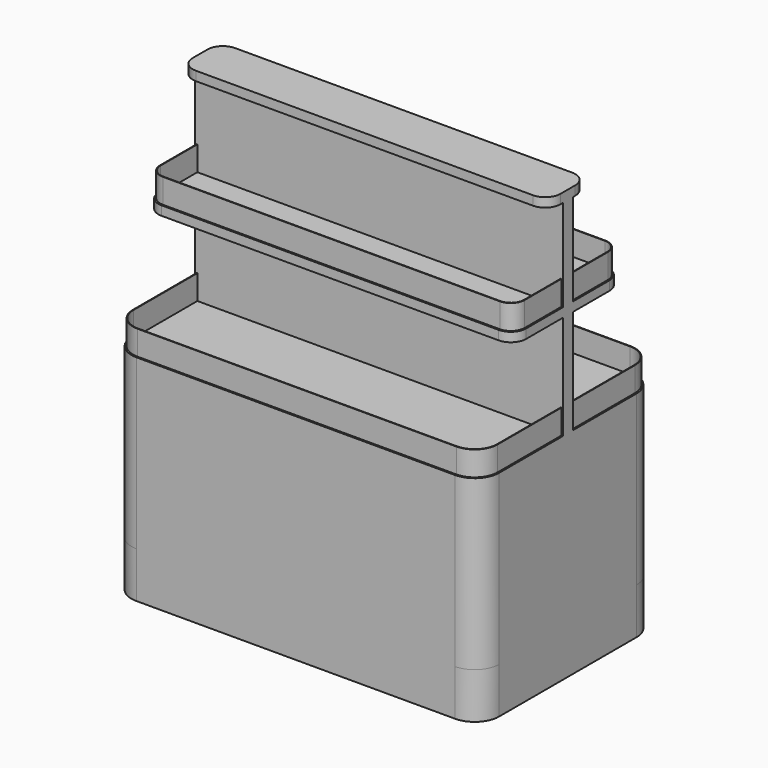
from build123d import *

# Parameters (mm, degrees)
F2_W      = 1100
F2_H      = 620
F3_DEPTH  = 150
F4_W      = 1200
F4_H      = 720
F5_DEPTH  = 550
F6_W      = 1200
F6_H      = 40
F7_DEPTH  = 700
F9_W      = 1200
F9_H      = 440
F10_DEPTH = 30
F11_W     = 1200
F11_H     = 160
F12_DEPTH = 30
F13_R     = 80
F14_R     = 85
F15_R     = 50
F16_R     = 50
F18_DEPTH = 80
F20_DEPTH = 80
F23_DEPTH = 1200
F25_DEPTH = 5
F27_DEPTH = 5
F29_DEPTH = 5
F31_DEPTH = 5
F32_R     = 15
F33_DEPTH = 594.9519681096
F35_DEPTH = 150


with BuildPart() as f3:
    # F2 (on Top) → F3 (new body, through all)
    with BuildSketch(Plane.XY):
        Rectangle(F2_W, F2_H)
    extrude(amount=F3_DEPTH)

    # F4 (on face) → F5 (join, through all)
    with BuildSketch(Plane.XY.offset(150)):
        Rectangle(F4_W, F4_H)
    extrude(amount=F5_DEPTH)

    # F6 (on face) → F7 (join, through all)
    with BuildSketch(Plane.XY.offset(700)):
        Rectangle(F6_W, F6_H)
    extrude(amount=F7_DEPTH)

    # F9 (on plane+point) → F10 (join, through all)
    with BuildSketch(Plane.XY.offset(1040)):
        Rectangle(F9_W, F9_H)
    extrude(amount=F10_DEPTH)

    # F11 (on face) → F12 (join, through all)
    with BuildSketch(Plane.XY.offset(1400)):
        Rectangle(F11_W, F11_H)
    extrude(amount=-F12_DEPTH)

    # F13
    f13_edges = [f3.edges().sort_by_distance(p)[0] for p in [
        (600, -360, 425),
        (-600, -360, 425),
        (600, 360, 425),
        (-600, 360, 425),
    ]]
    fillet(f13_edges, radius=F13_R)

    # F14
    f14_edges = [f3.edges().sort_by_distance(p)[0] for p in [
        (-550, 310, 75),
        (-550, -310, 75),
        (550, -310, 75),
        (550, 310, 75),
    ]]
    fillet(f14_edges, radius=F14_R)

    # F15
    f15_edges = [f3.edges().sort_by_distance(p)[0] for p in [
        (600, 220, 1055),
        (-600, 220, 1055),
        (-600, -220, 1055),
        (600, -220, 1055),
    ]]
    fillet(f15_edges, radius=F15_R)

    # F16
    f16_edges = [f3.edges().sort_by_distance(p)[0] for p in [
        (600, -80, 1385),
        (600, 80, 1385),
        (-600, -80, 1385),
        (-600, 80, 1385),
    ]]
    fillet(f16_edges, radius=F16_R)

    # F34 (on face) → F35 (join, through all)
    with BuildSketch(Plane(origin=(0, 0, 150), x_dir=(1, 0, 0), z_dir=(0, 0, -1))):
        with BuildLine():
            Line((520, 360), (-520, 360))
            ThreePointArc((-520, 360), (-576.5685424949, 336.5685424949), (-600, 280))
            Line((-600, 280), (-600, -280))
            ThreePointArc((-600, -280), (-576.5685424949, -336.5685424949), (-520, -360))
            Line((-520, -360), (520, -360))
            ThreePointArc((520, -360), (576.5685424949, -336.5685424949), (600, -280))
            Line((600, -280), (600, 280))
            ThreePointArc((600, 280), (576.5685424949, 336.5685424949), (520, 360))
        make_face()
    extrude(amount=F35_DEPTH)


with BuildPart() as f18:
    # F17 (on face) → F18 (new body)
    with BuildSketch(Plane.XY.offset(700)):
        with BuildLine():
            ThreePointArc((-520, 355), (-573.033008589, 333.033008589), (-595, 280))
            Line((-595, 280), (-595, -280))
            ThreePointArc((-595, -280), (-573.033008589, -333.033008589), (-520, -355))
            Line((-520, -355), (520, -355))
            ThreePointArc((520, -355), (573.033008589, -333.033008589), (595, -280))
            Line((595, -280), (595, 280))
            ThreePointArc((595, 280), (573.033008589, 333.033008589), (520, 355))
            Line((520, 355), (-520, 355))
        make_face()
        with BuildLine():
            ThreePointArc((593, -280), (571.6187950266, -331.6187950266), (520, -353))
            Line((520, -353), (-520, -353))
            ThreePointArc((-520, -353), (-571.6187950266, -331.6187950266), (-593, -280))
            Line((-593, -280), (-593, 280))
            ThreePointArc((-593, 280), (-571.6187950266, 331.6187950266), (-520, 353))
            Line((-520, 353), (520, 353))
            ThreePointArc((520, 353), (571.6187950266, 331.6187950266), (593, 280))
            Line((593, 280), (593, -280))
        make_face(mode=Mode.SUBTRACT)
    extrude(amount=F18_DEPTH)


with BuildPart() as f20:
    # F19 (on face) → F20 (new body)
    with BuildSketch(Plane.XY.offset(1070)):
        with BuildLine():
            ThreePointArc((-550, 215), (-581.8198051534, 201.8198051534), (-595, 170))
            Line((-595, 170), (-595, 15))
            Line((-595, 15), (-595, -15))
            Line((-595, -15), (-595, -170))
            ThreePointArc((-595, -170), (-581.8198051534, -201.8198051534), (-550, -215))
            Line((-550, -215), (550, -215))
            ThreePointArc((550, -215), (581.8198051534, -201.8198051534), (595, -170))
            Line((595, -170), (595, -15))
            Line((595, -15), (595, 15))
            Line((595, 15), (595, 170))
            ThreePointArc((595, 170), (581.8198051534, 201.8198051534), (550, 215))
            Line((550, 215), (-550, 215))
        make_face()
        with BuildLine():
            Line((593, 170), (593, 15))
            Line((593, 15), (593, -15))
            Line((593, -15), (593, -170))
            ThreePointArc((593, -170), (580.405591591, -200.405591591), (550, -213))
            Line((550, -213), (-550, -213))
            ThreePointArc((-550, -213), (-580.405591591, -200.405591591), (-593, -170))
            Line((-593, -170), (-593, -15))
            Line((-593, -15), (-593, 15))
            Line((-593, 15), (-593, 170))
            ThreePointArc((-593, 170), (-580.405591591, 200.405591591), (-550, 213))
            Line((-550, 213), (550, 213))
            ThreePointArc((550, 213), (580.405591591, 200.405591591), (593, 170))
        make_face(mode=Mode.SUBTRACT)
    extrude(amount=F20_DEPTH)


with BuildPart() as f23:
    # F22 (on face) → F23 (new body, through all)
    with BuildSketch(Plane.YZ.offset(600)):
        Polygon((360, 1950), (0, 2000), (-360, 1950), (-359.2928826924, 1945.0501788468), (0, 1994.9519681096), (359.2928826924, 1945.0501788468), align=None)
    extrude(amount=-F23_DEPTH)

    # F24 (on face) → F25 (join)
    with BuildSketch(Plane.XZ.offset(360)):
        with BuildLine():
            Line((600, 1950), (-600, 1950))
            Line((-600, 1950), (-600, 1860))
            ThreePointArc((-600, 1860), (-540, 1800), (-480, 1860))
            ThreePointArc((-480, 1860), (-420, 1800), (-360, 1860))
            ThreePointArc((-360, 1860), (-300, 1800), (-240, 1860))
            ThreePointArc((-240, 1860), (-180, 1800), (-120, 1860))
            ThreePointArc((-120, 1860), (-60, 1800), (0, 1860))
            ThreePointArc((0, 1860), (60, 1800), (120, 1860))
            ThreePointArc((120, 1860), (180, 1800), (240, 1860))
            ThreePointArc((240, 1860), (300, 1800), (360, 1860))
            ThreePointArc((360, 1860), (420, 1800), (480, 1860))
            ThreePointArc((480, 1860), (540, 1800), (600, 1860))
            Line((600, 1860), (600, 1950))
        make_face()
    extrude(amount=-F25_DEPTH)

    # F26 (on face) → F27 (join)
    with BuildSketch(Plane(origin=(0, 360, 0), x_dir=(-1, 0, 0), z_dir=(0, 1, 0))):
        with BuildLine():
            Line((600, 1860), (600, 1950))
            Line((600, 1950), (-600, 1950))
            Line((-600, 1950), (-600, 1860))
            ThreePointArc((-600, 1860), (-540, 1800), (-480, 1860))
            ThreePointArc((-480, 1860), (-420, 1800), (-360, 1860))
            ThreePointArc((-360, 1860), (-300, 1800), (-240, 1860))
            ThreePointArc((-240, 1860), (-180, 1800), (-120, 1860))
            ThreePointArc((-120, 1860), (-60, 1800), (0, 1860))
            ThreePointArc((0, 1860), (60, 1800), (120, 1860))
            ThreePointArc((120, 1860), (180, 1800), (240, 1860))
            ThreePointArc((240, 1860), (300, 1800), (360, 1860))
            ThreePointArc((360, 1860), (420, 1800), (480, 1860))
            ThreePointArc((480, 1860), (540, 1800), (600, 1860))
        make_face()
    extrude(amount=-F27_DEPTH)

    # F28 (on face) → F29 (join)
    with BuildSketch(Plane.YZ.offset(600)):
        with BuildLine():
            Line((360, 1950), (0, 2000))
            Line((0, 2000), (-360, 1950))
            Line((-360, 1950), (-360, 1860))
            ThreePointArc((-360, 1860), (-300, 1800), (-240, 1860))
            ThreePointArc((-240, 1860), (-180, 1800), (-120, 1860))
            ThreePointArc((-120, 1860), (-60, 1800), (0, 1860))
            ThreePointArc((0, 1860), (60, 1800), (120, 1860))
            ThreePointArc((120, 1860), (180, 1800), (240, 1860))
            ThreePointArc((240, 1860), (300, 1800), (360, 1860))
            Line((360, 1860), (360, 1950))
        make_face()
    extrude(amount=-F29_DEPTH)

    # F30 (on face) → F31 (join)
    with BuildSketch(Plane(origin=(-600, 0, 0), x_dir=(0, -1, 0), z_dir=(-1, 0, 0))):
        with BuildLine():
            Line((-360, 1950), (-360, 1860))
            ThreePointArc((-360, 1860), (-300, 1800), (-240, 1860))
            ThreePointArc((-240, 1860), (-180, 1800), (-120, 1860))
            ThreePointArc((-120, 1860), (-60, 1800), (0, 1860))
            ThreePointArc((0, 1860), (60, 1800), (120, 1860))
            ThreePointArc((120, 1860), (180, 1800), (240, 1860))
            ThreePointArc((240, 1860), (300, 1800), (360, 1860))
            Line((360, 1860), (360, 1950))
            Line((360, 1950), (0, 2000))
            Line((0, 2000), (-360, 1950))
        make_face()
    extrude(amount=-F31_DEPTH)


with BuildPart() as f33:
    # F32 (on face) → F33 (new body, through all)
    with BuildSketch(Plane.XY.offset(1400)):
        with Locations((-520, 0)):
            Circle(F32_R)
    extrude(amount=F33_DEPTH)


with BuildPart() as f33b:
    # F32 (on face) → F33, piece 2 (new body, through all)
    with BuildSketch(Plane.XY.offset(1400)):
        with Locations((520, 0)):
            Circle(F32_R)
    extrude(amount=F33_DEPTH)


solid = Compound([f3.part, f18.part, f20.part])
